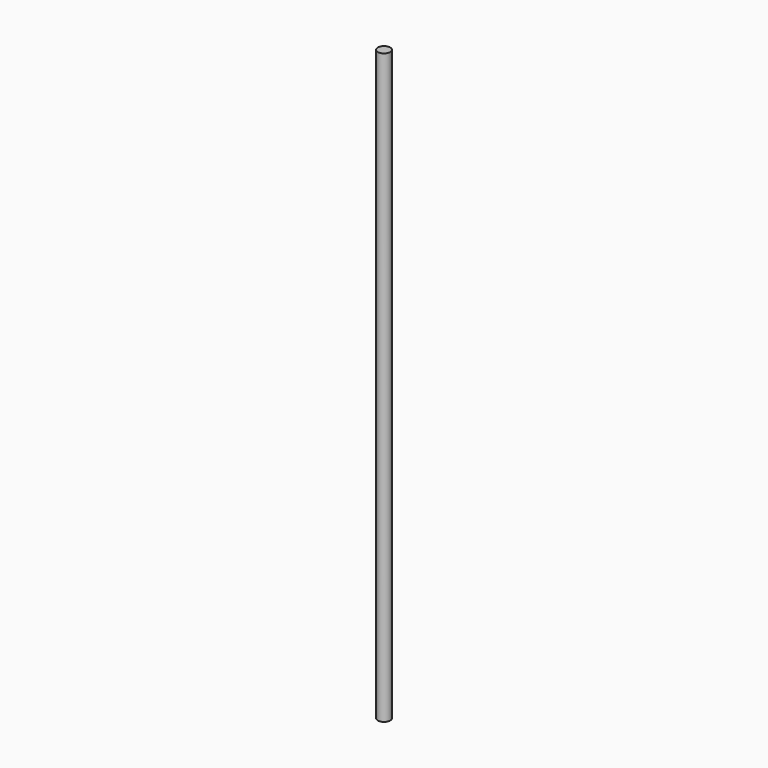
from build123d import *

# Parameters (mm, degrees)
CYLINDER_R     = 2.75
CYLINDER_DEPTH = 260


with BuildPart() as part:
    # Cylinder → Cylinder (new body)
    with BuildSketch(Plane.XY):
        Circle(CYLINDER_R)
    extrude(amount=CYLINDER_DEPTH)


solid = part.part
